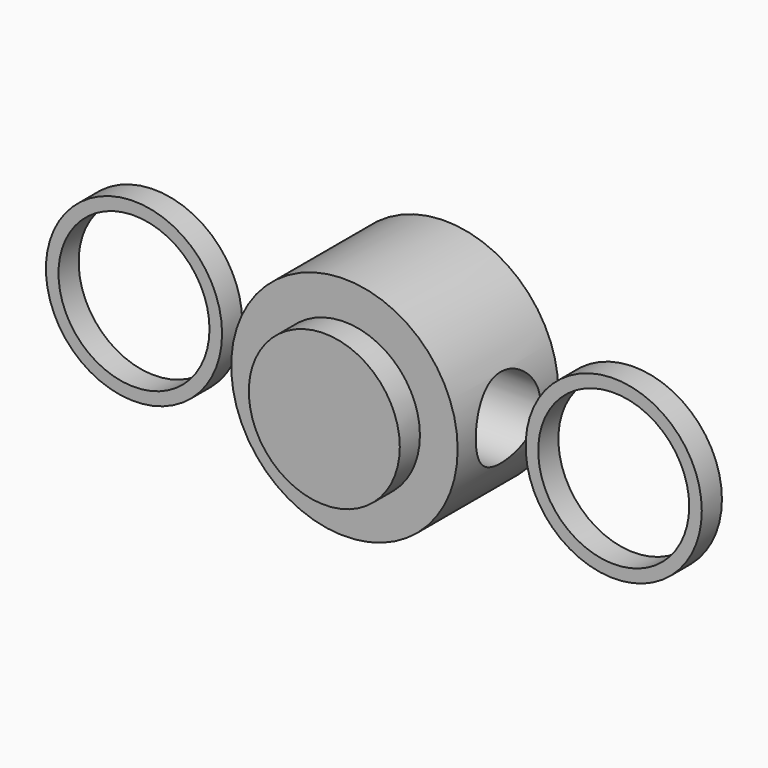
from build123d import *

# Parameters (mm, degrees)
F0_R     = 30
F1_DEPTH = 35
F0_R_2   = 45
F2_DEPTH = 25
F3_R     = 16
F4_DEPTH = 45
F5_R     = 35
F5_R_2   = 30
F6_DEPTH = 10


with BuildPart() as f1:
    # F0 (on Front) → F1 (new body, symmetric)
    with BuildSketch(Plane.XZ):
        Circle(F0_R)
    extrude(amount=F1_DEPTH, both=True)

    # F0 (on Front) → F2 (join, symmetric)
    with BuildSketch(Plane.XZ):
        Circle(F0_R_2)
        Circle(F0_R, mode=Mode.SUBTRACT)
    extrude(amount=F2_DEPTH, both=True)

    # F3 (on Right) → F4 (cut, symmetric)
    with BuildSketch(Plane.YZ):
        Circle(F3_R)
    extrude(amount=F4_DEPTH, both=True, mode=Mode.SUBTRACT)


with BuildPart() as f6:
    # F5 (on Front) → F6 (new body)
    with BuildSketch(Plane.XZ):
        with Locations((95.004305, 0)):
            Circle(F5_R)
        with Locations((95.004305, 0)):
            Circle(F5_R_2, mode=Mode.SUBTRACT)
        with Locations((-95.625247, 0)):
            Circle(F5_R)
        with Locations((-95.625247, 0)):
            Circle(F5_R_2, mode=Mode.SUBTRACT)
    extrude(amount=F6_DEPTH)


solid = Compound([f1.part, f6.part])
